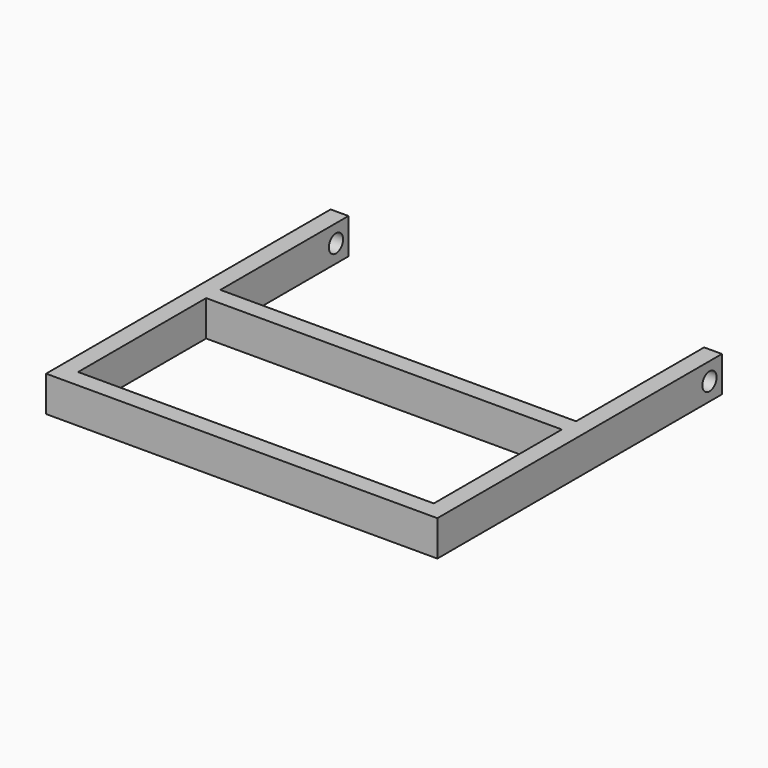
from build123d import *

# Parameters (mm, degrees)
F0_W     = 200
F0_H     = 10
F1_DEPTH = 20
F2_R     = 5
F3_DEPTH = 563


with BuildPart() as f1:
    # F0 (on Top) → F1 (new body)
    with BuildSketch(Plane.XY):
        Polygon((-44.678043, 37.924974), (-44.678043, 127.924974), (-54.678043, 127.924974), (-54.678043, -72.075026), (-44.678043, -72.075026), (-44.678043, -62.075026), (-44.678043, 27.924974), align=None)
        with Locations((55.321957, 32.924974)):
            Rectangle(F0_W, F0_H)
        Polygon((155.321957, 127.924974), (155.321957, 37.924974), (155.321957, 27.924974), (155.321957, -62.075026), (155.321957, -72.075026), (165.321957, -72.075026), (165.321957, 127.924974), align=None)
        with Locations((55.321957, -67.075026)):
            Rectangle(F0_W, F0_H)
    extrude(amount=F1_DEPTH)

    # F2 (on face) → F3 (cut)
    with BuildSketch(Plane.YZ.offset(165.321957)):
        with Locations((119.149327, 10)):
            Circle(F2_R)
    extrude(amount=-F3_DEPTH, mode=Mode.SUBTRACT)


solid = f1.part
